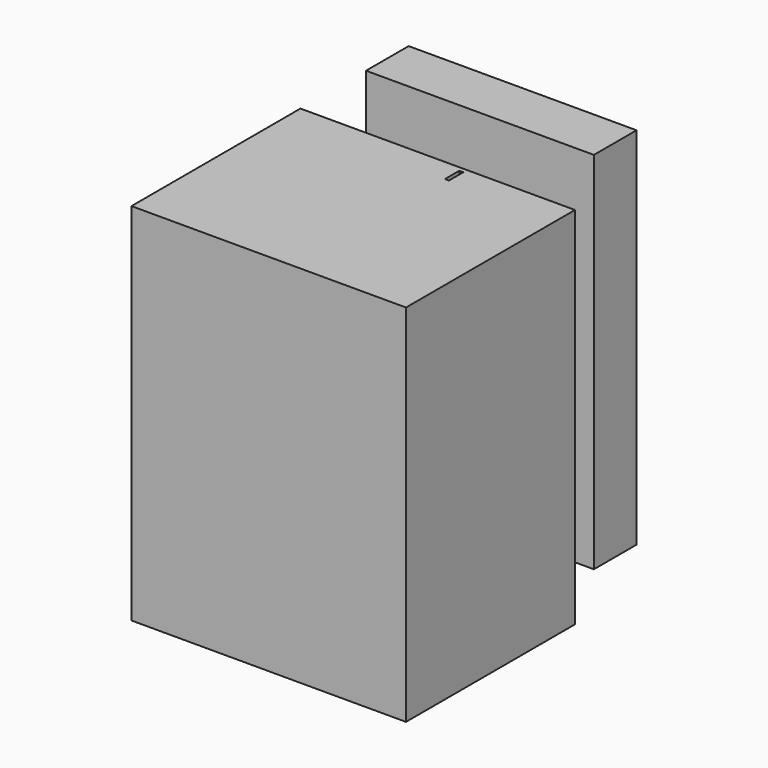
from build123d import *

# Parameters (mm, degrees)
F0_W     = 1.244753
F0_H     = 5.601339
F0_W_2   = 70.950344
F0_H_2   = 16.596571
F1_DEPTH = 113.58846


with BuildPart() as f1:
    # F0 (on Top) → F1 (new body)
    with BuildSketch(Plane.XY):
        Polygon((48.752397, 19.915894), (-36.719948, 19.915894), (-36.719948, -45.848012), (48.752397, -45.848012), (48.752397, 0), align=None)
        with Locations((14.521971, 15.663024)):
            Rectangle(F0_W, F0_H, mode=Mode.SUBTRACT)
        with Locations((-1.244776, 53.731412)):
            Rectangle(F0_W_2, F0_H_2)
    extrude(amount=-F1_DEPTH)


solid = f1.part
